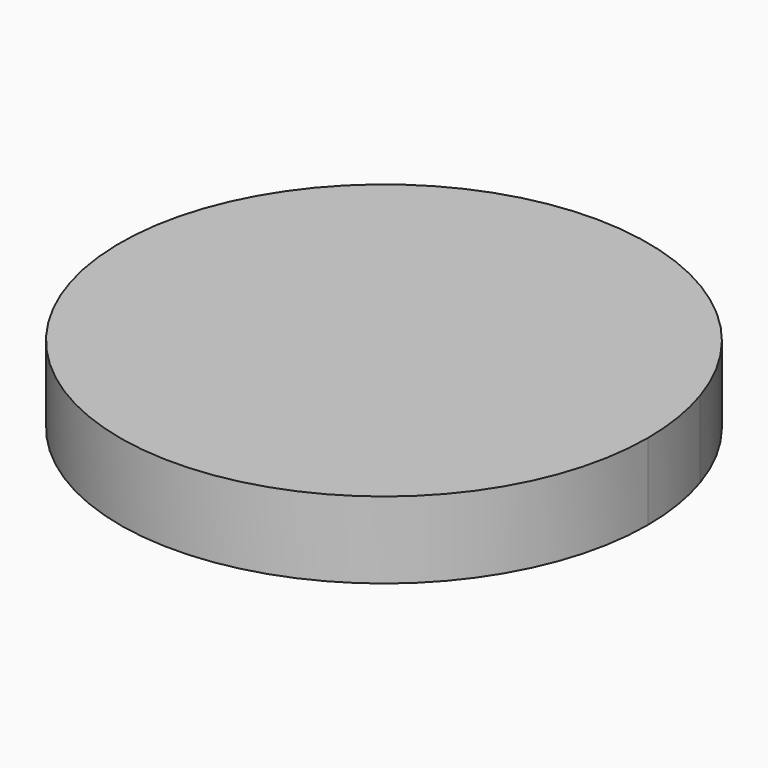
from build123d import *

# Parameters (mm, degrees)
F1_DEPTH = 25.4


with BuildPart() as f1:
    # F0 (on Top) → F1 (new body)
    with BuildSketch(Plane.XY):
        with BuildLine():
            ThreePointArc((83.217445, 27.038987), (-86.42273, -13.688016), (87.5, 0))
            ThreePointArc((87.5, 0), (86.42273, 13.688016), (83.217445, 27.038987))
        make_face()
    extrude(amount=F1_DEPTH)


solid = f1.part
